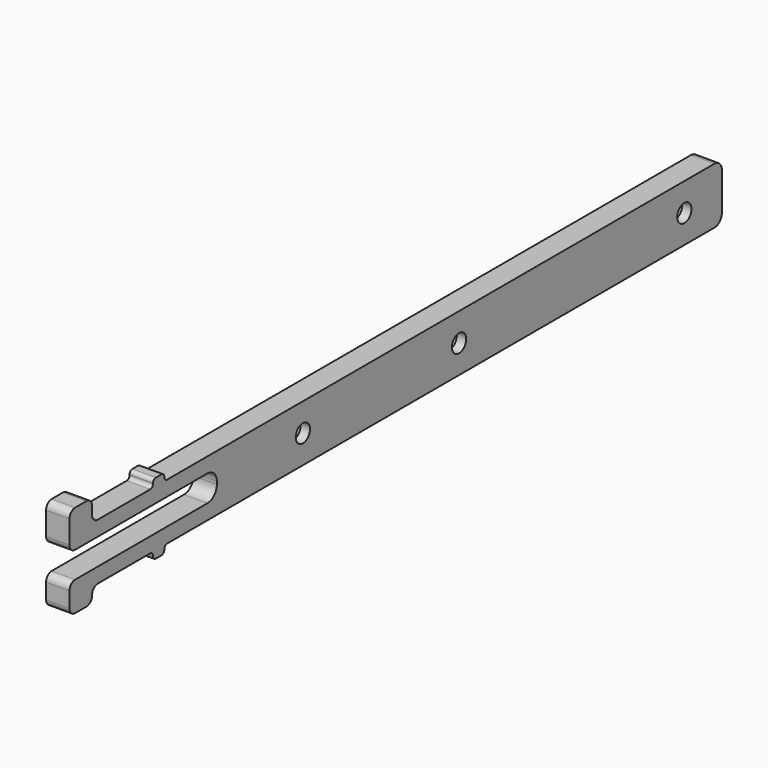
from build123d import *

# Parameters (mm, degrees)
SKETCH_R             = 1.9
PAD_DEPTH            = 5
SKETCH001_R          = 4
POCKET_DEPTH         = 3
FILLET_R             = 2
FILLET001_R          = 0.75
FILLET002_R          = 1.49
FILLET003_R          = 2.5
BODY_PLACEMENT_ANGLE = 270


with BuildPart() as part:
    # Sketch → Pad (new body)
    with BuildSketch(Plane.XZ):
        Polygon((4, 0), (-144.5, 0), (-144.5, -1.6), (-147.5, -1.6), (-147.5, 0), (-163.728138112, 0), (-163.728138112, -3.090405), (-169.728138112, -3.090405), (-169.728138112, 3.2), (-130.5, 3.2), (-130.5, 8.8), (-169.728138112, 8.8), (-169.728138112, 16.699631), (-163.728138112, 16.699631), (-163.728138112, 12), (-147.5, 12), (-147.5, 13.6), (-144.5, 13.6), (-144.5, 12), (4, 12), align=None)
        with Locations((-66, 6)):
            Circle(SKETCH_R, mode=Mode.SUBTRACT)
        with Locations((-6, 6)):
            Circle(SKETCH_R, mode=Mode.SUBTRACT)
        with Locations((-107.6, 6)):
            Circle(SKETCH_R, mode=Mode.SUBTRACT)
    extrude(amount=PAD_DEPTH)

    # Sketch001 (on Face24 of Pad) → Pocket (cut)
    with BuildSketch(Plane(origin=(0, 0, 0), x_dir=(1, 0, 0), z_dir=(0, 1, 0))):
        with Locations((-107.6, -6)):
            Circle(SKETCH001_R)
        with Locations((-66, -6)):
            Circle(SKETCH001_R)
        with Locations((-6, -6)):
            Circle(SKETCH001_R)
    extrude(amount=-POCKET_DEPTH, mode=Mode.SUBTRACT)

    # Fillet
    fillet_edges = [part.edges().sort_by_distance(p)[0] for p in [
        (4, -2.5, 12),
        (4, -2.5, 0),
    ]]
    fillet(fillet_edges, radius=FILLET_R)

    # Fillet001
    fillet001_edges = [part.edges().sort_by_distance(p)[0] for p in [
        (-147.5, -2.5, 12),
        (-147.5, -2.5, 13.6),
        (-144.5, -2.5, 13.6),
        (-144.5, -2.5, 12),
        (-144.5, -2.5, -1.6),
        (-147.5, -2.5, 0),
        (-147.5, -2.5, -1.6),
        (-144.5, -2.5, 0),
    ]]
    fillet(fillet001_edges, radius=FILLET001_R)

    # Fillet002
    fillet002_edges = [part.edges().sort_by_distance(p)[0] for p in [
        (-163.728138, -2.5, 0),
        (-163.728138, -2.5, -3.090405),
        (-169.728138, -2.5, -3.090405),
        (-169.728138, -2.5, 3.2),
        (-169.728138, -2.5, 16.699631),
        (-163.728138, -2.5, 16.699631),
        (-163.728138, -2.5, 12),
        (-169.728138, -2.5, 8.8),
    ]]
    fillet(fillet002_edges, radius=FILLET002_R)

    # Fillet003
    fillet003_edges = [part.edges().sort_by_distance(p)[0] for p in [
        (-130.5, -2.5, 8.8),
        (-130.5, -2.5, 3.2),
    ]]
    fillet(fillet003_edges, radius=FILLET003_R)


with BuildPart() as part_1:
    # Body placement: moved
    add(part.part.moved(Location((113, 136, 8))).rotate(Axis((113, 136, 8), (0, 0, -1)), BODY_PLACEMENT_ANGLE))


solid = part_1.part
